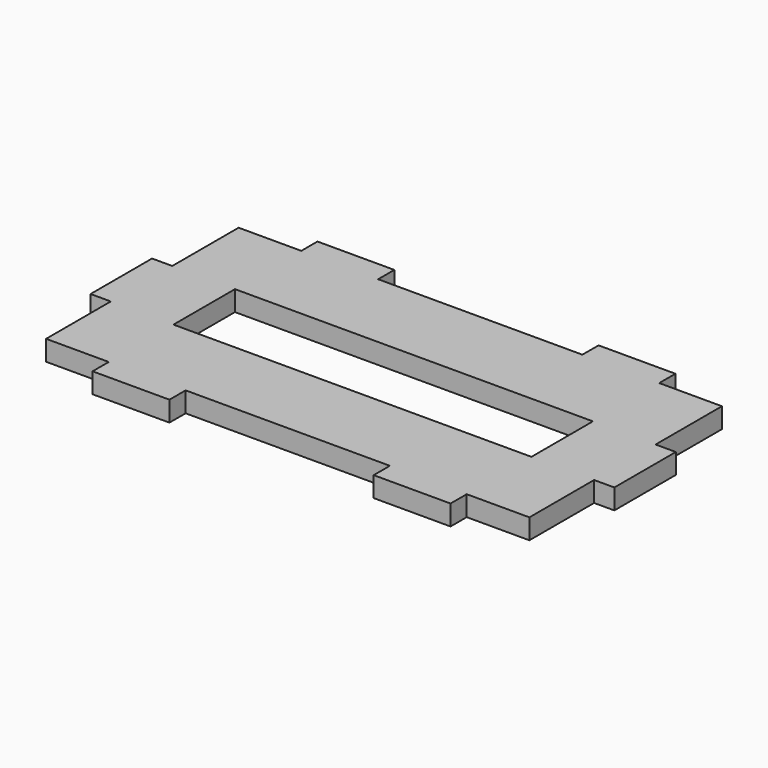
from build123d import *

# Parameters (mm, degrees)
F0_W     = 88.5
F0_H     = 19
F1_DEPTH = 5


with BuildPart() as f1:
    # F0 (on Top) → F1 (new body)
    with BuildSketch(Plane.XY):
        Polygon((20.5, 5), (20.5, 0), (39.5, 0), (39.5, 5), (90, 5), (90, 0), (109, 0), (109, 5), (124.5, 5), (124.5, 25), (129.5, 25), (129.5, 34.75), (129.5, 44), (124.5, 44), (124.5, 64.5), (109, 64.5), (109, 69.5), (90, 69.5), (90, 64.5), (39.5, 64.5), (39.5, 69.5), (20.5, 69.5), (20.5, 64.5), (5, 64.5), (5, 44), (0, 44), (0, 35), (0, 25), (5, 25), (5, 5), align=None)
        with Locations((64.75, 34.5)):
            Rectangle(F0_W, F0_H, mode=Mode.SUBTRACT)
    extrude(amount=F1_DEPTH)


solid = f1.part
